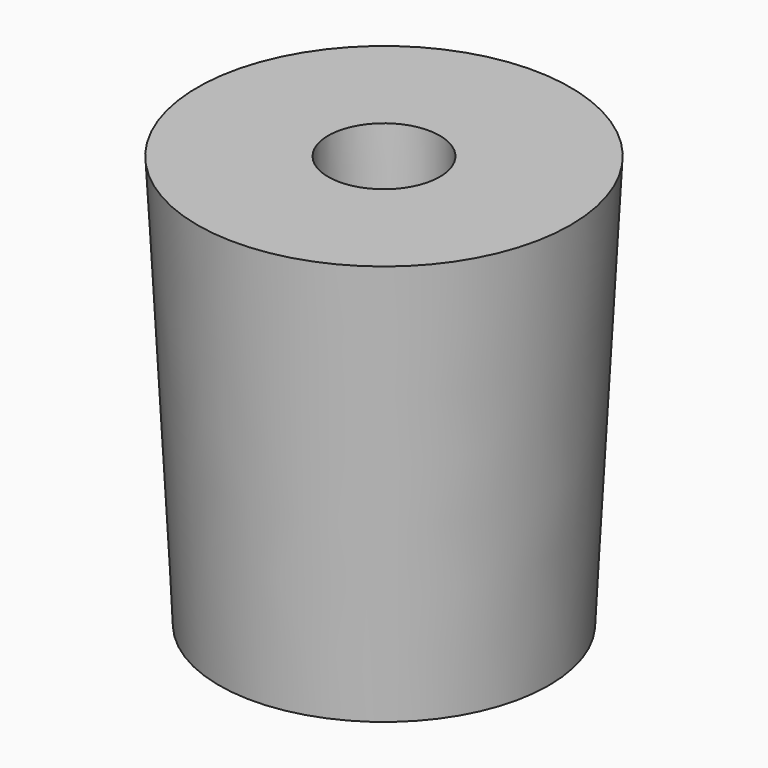
from build123d import *

# Parameters (mm, degrees)
F0_R     = 4.8
F1_DEPTH = 12
F1_TAPER = -3
F2_R     = 1.625
F3_DEPTH = 12
F3_TAPER = 1


with BuildPart() as f1:
    # F0 (on Top) → F1 (new body)
    with BuildSketch(Plane.XY):
        Circle(F0_R)
    extrude(amount=F1_DEPTH, taper=F1_TAPER)

    # F2 (on face) → F3 (cut)
    with BuildSketch(Plane.XY.offset(12)):
        Circle(F2_R)
    extrude(amount=-F3_DEPTH, taper=F3_TAPER, mode=Mode.SUBTRACT)


solid = f1.part
